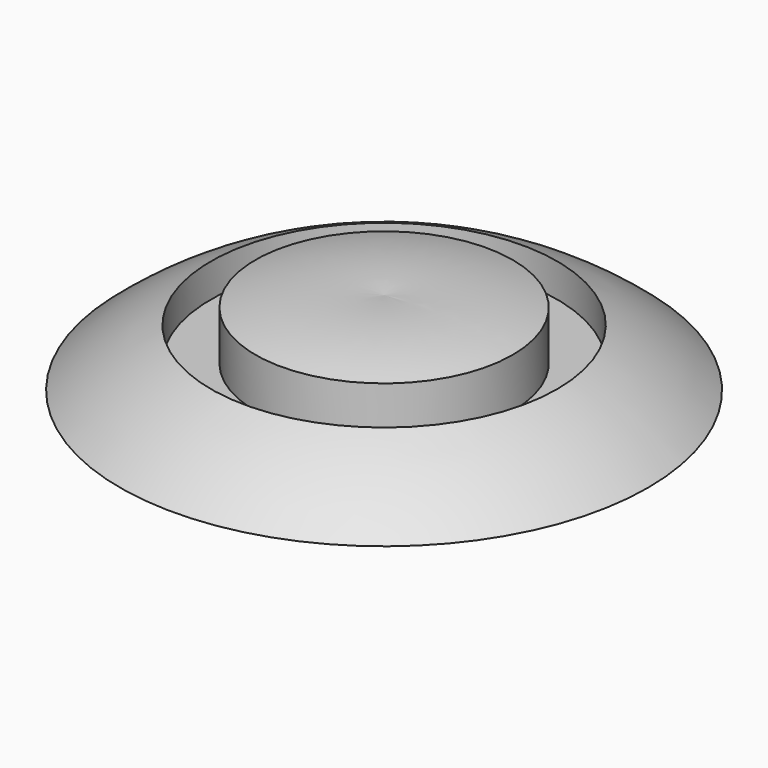
from build123d import *


with BuildPart() as f1:
    # F0 (on Front) → F1 (revolve)
    with BuildSketch(Plane.XZ):
        with BuildLine():
            Line((0, 0), (57.784799, 0))
            ThreePointArc((57.784799, 0), (48.333558, 7.046499), (37.903298, 12.540933))
            Line((37.903298, 12.540933), (37.903298, 5.179216))
            Line((37.903298, 5.179216), (28.163382, 5.179216))
            Line((28.163382, 5.179216), (28.163382, 15.972106))
            ThreePointArc((28.163382, 15.972106), (14.191682, 18.46608), (0, 18.30956))
            Line((0, 18.30956), (0, 0))
        make_face()
    revolve(axis=Axis((0, 0, 9.15478), (0, 0, -1)))


solid = f1.part
